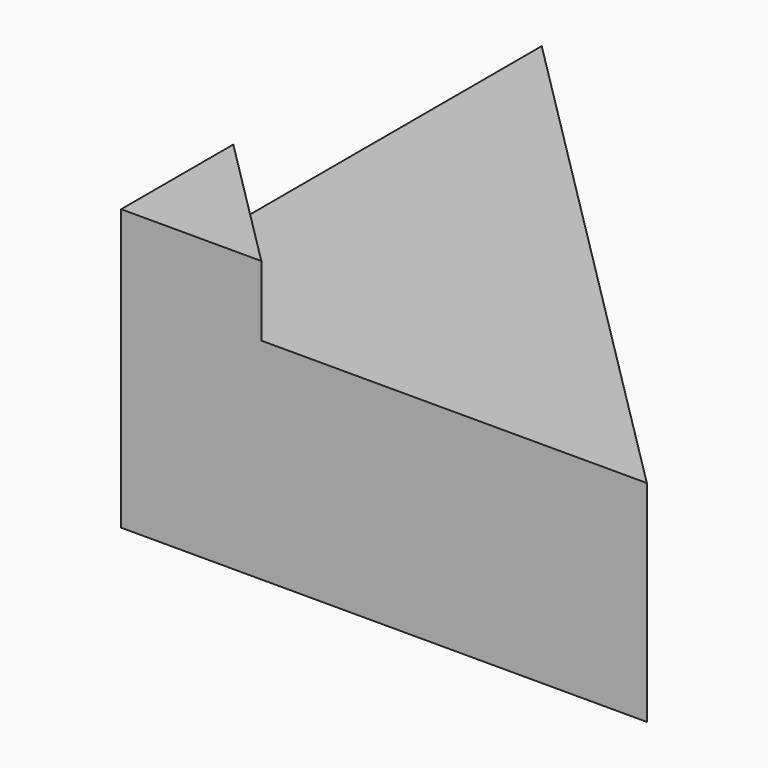
from build123d import *

# Parameters (mm, degrees)
F1_DEPTH = 30
F2_T     = -5
F4_DEPTH = 10


with BuildPart() as f1:
    # F0 (on Top) → F1 (new body)
    with BuildSketch(Plane.XY):
        Polygon((0, 75), (0, 0), (75, 0), align=None)
    extrude(amount=F1_DEPTH)

    # F2
    f2_openings = [f1.faces().sort_by_distance(p)[0] for p in [
        (37.5, 37.5, 15),
    ]]
    offset(amount=F2_T, openings=f2_openings)

    # F3 (on face) → F4 (join)
    with BuildSketch(Plane.XY.offset(30)):
        Polygon((0, 20), (0, 0), (20, 0), align=None)
    extrude(amount=F4_DEPTH)


solid = f1.part
